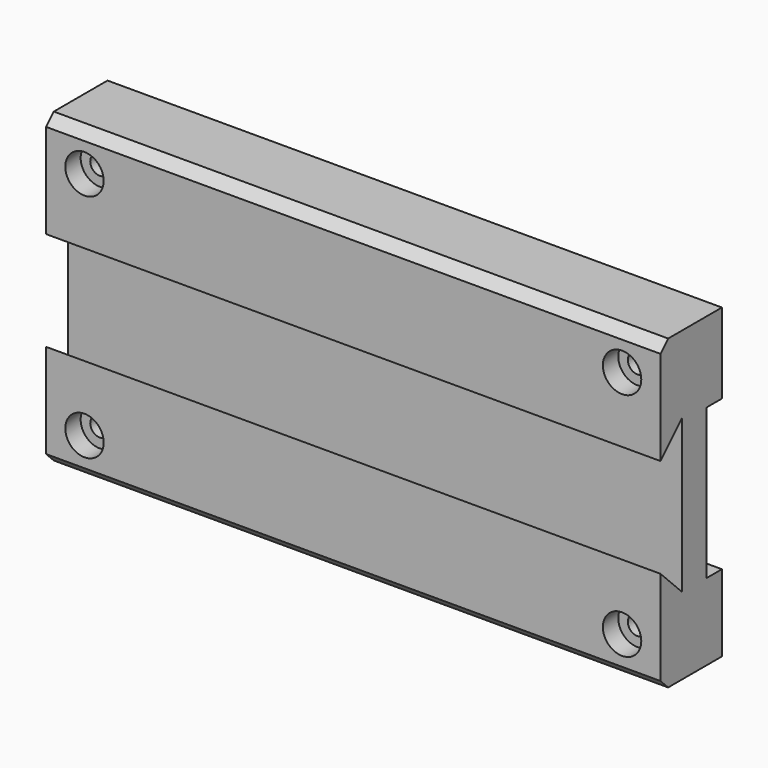
from build123d import *

# Parameters (mm, degrees)
F0_W           = 101.6
F0_H           = 50.8
F1_DEPTH       = 12.7
F2_SIZE        = 1.5875
F4_D           = 3.175
F4_CBORE_D     = 6.35
F4_CBORE_DEPTH = 3.175
F6_DEPTH       = 101.601
F7_W           = 3.175
F7_H           = 24.839708
F8_DEPTH       = 101.6


with BuildPart() as f1:
    # F0 (on Front) → F1 (new body)
    with BuildSketch(Plane.XZ):
        with Locations((50.8, 25.4)):
            Rectangle(F0_W, F0_H)
    extrude(amount=F1_DEPTH)

    # F2
    f2_edges = [f1.edges().sort_by_distance(p)[0] for p in [
        (50.8, -12.7, 50.8),
        (50.8, -12.7, 0),
    ]]
    chamfer(f2_edges, length=F2_SIZE)

    # F4 (through all)
    with Locations(Plane.XZ.offset(12.7)):
        with Locations((6.35, 6.35), (6.35, 44.45), (95.25, 44.45), (95.25, 6.35)):
            CounterBoreHole(F4_D / 2, F4_CBORE_D / 2, F4_CBORE_DEPTH)

    # F5 (on face) → F6 (cut, through all)
    with BuildSketch(Plane(origin=(0, 0, 0), x_dir=(0, -1, 0), z_dir=(-1, 0, 0))):
        Polygon((12.7, 17.1958), (12.7, 33.6042), (8.2042, 38.1), (8.2042, 12.7), align=None)
    extrude(amount=-F6_DEPTH, mode=Mode.SUBTRACT)

    # F7 (on face) → F8 (cut, through all)
    with BuildSketch(Plane(origin=(0, 0, 0), x_dir=(0, -1, 0), z_dir=(-1, 0, 0))):
        with Locations((1.5875, 25.119854)):
            Rectangle(F7_W, F7_H)
    extrude(amount=-F8_DEPTH, mode=Mode.SUBTRACT)


solid = f1.part
